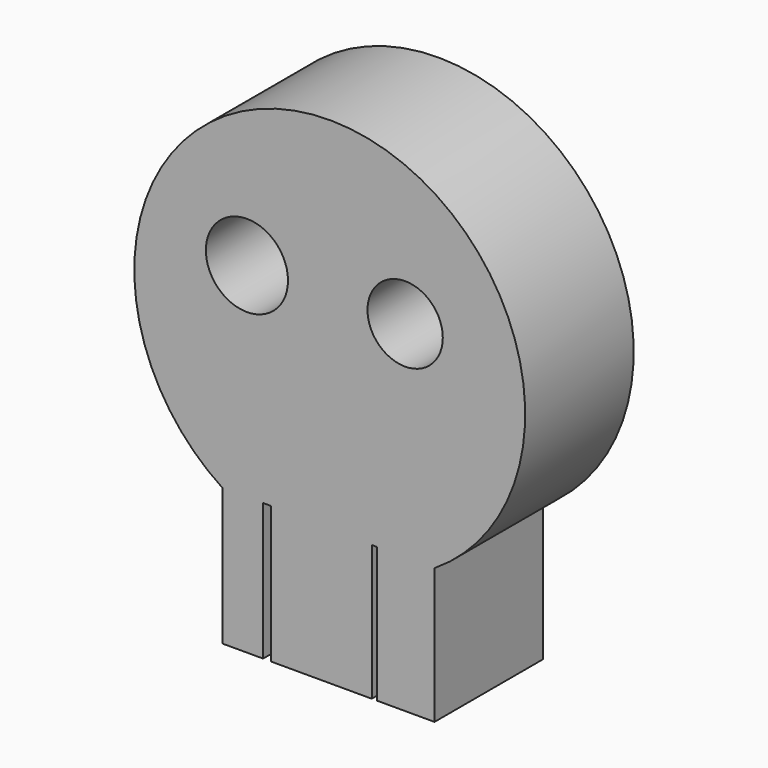
from build123d import *

# Parameters (mm, degrees)
F1_DEPTH = 25.4
F2_W     = 1.488530077
F2_H     = 25.6520612165
F2_W_2   = 0.9923540056
F2_H_2   = 25.346679613
F3_DEPTH = 25.4
F4_R     = 7.6893132266
F4_R_2   = 7.0502845775
F5_DEPTH = 25.4


with BuildPart() as f1:
    # F0 (on Front) → F1 (new body)
    with BuildSketch(Plane.XZ):
        with BuildLine():
            Line((19.6971185505, -36.4931114018), (19.6971185505, -11.1464317888))
            ThreePointArc((19.6971185505, -11.1464317888), (0.3652750896, 56.3419043865), (-20.0025010854, -10.8410501853))
            Line((-20.0025010854, -10.8410501853), (-20.0025010854, -36.4931114018))
            Line((-20.0025010854, -36.4931114018), (-7.4818506837, -36.4931114018))
            Line((-7.4818506837, -36.4931114018), (6.8710884079, -36.4931114018))
            Line((6.8710884079, -36.4931114018), (19.6971185505, -36.4931114018))
        make_face()
    extrude(amount=F1_DEPTH)

    # F2 (on face) → F3 (cut)
    with BuildSketch(Plane.XZ.offset(25.4)):
        with Locations((-11.6479513235, -23.6670807935)):
            Rectangle(F2_W, F2_H)
        with Locations((8.4472019225, -23.8197715953)):
            Rectangle(F2_W_2, F2_H_2)
    extrude(amount=-F3_DEPTH, mode=Mode.SUBTRACT)

    # F4 (on face) → F5 (cut)
    with BuildSketch(Plane.XZ.offset(25.4)):
        with Locations((-15.4217751697, 27.3316595703)):
            Circle(F4_R)
        with Locations((14.2002468929, 27.3316595703)):
            Circle(F4_R_2)
    extrude(amount=-F5_DEPTH, mode=Mode.SUBTRACT)


solid = f1.part
